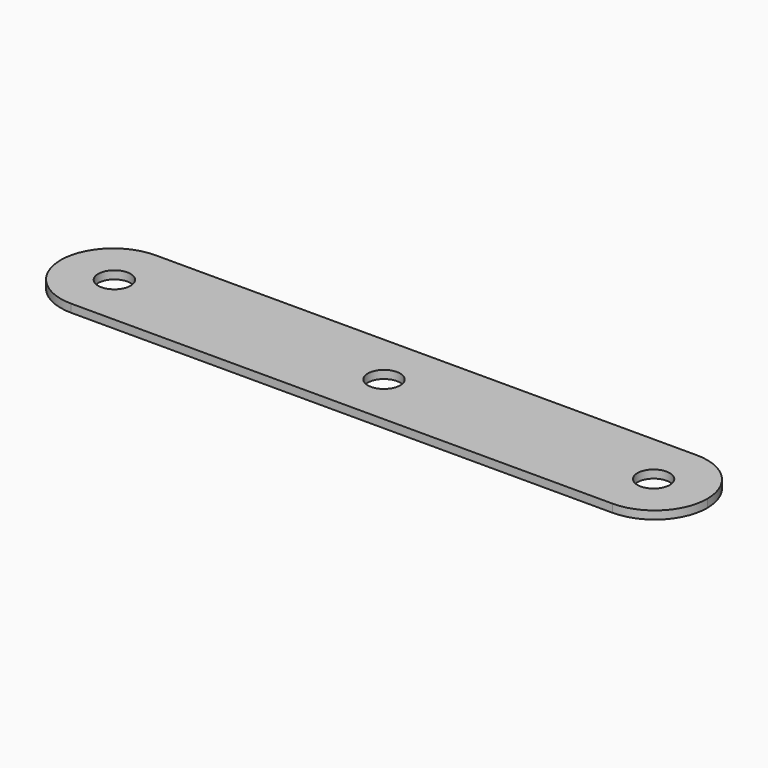
from build123d import *

# Parameters (mm, degrees)
F0_R     = 4
F1_DEPTH = 2


with BuildPart() as f1:
    # F0 (on Top) → F1 (new body)
    with BuildSketch(Plane.XY):
        with BuildLine():
            Line((72.098875, 4.53313), (-61.901125, 4.53313))
            ThreePointArc((-61.901125, 4.53313), (-71.093513, 0.725518), (-74.901125, -8.46687))
            ThreePointArc((-74.901125, -8.46687), (-71.093513, -17.659259), (-61.901125, -21.46687))
            Line((-61.901125, -21.46687), (72.098875, -21.46687))
            ThreePointArc((72.098875, -21.46687), (81.291263, -17.659259), (85.098875, -8.46687))
            ThreePointArc((85.098875, -8.46687), (81.291263, 0.725518), (72.098875, 4.53313))
        make_face()
        with Locations((-61.628222, -8.46687)):
            Circle(F0_R, mode=Mode.SUBTRACT)
        with Locations((5.098875, -8.46687)):
            Circle(F0_R, mode=Mode.SUBTRACT)
        with Locations((71.825972, -8.46687)):
            Circle(F0_R, mode=Mode.SUBTRACT)
    extrude(amount=F1_DEPTH)


solid = f1.part
